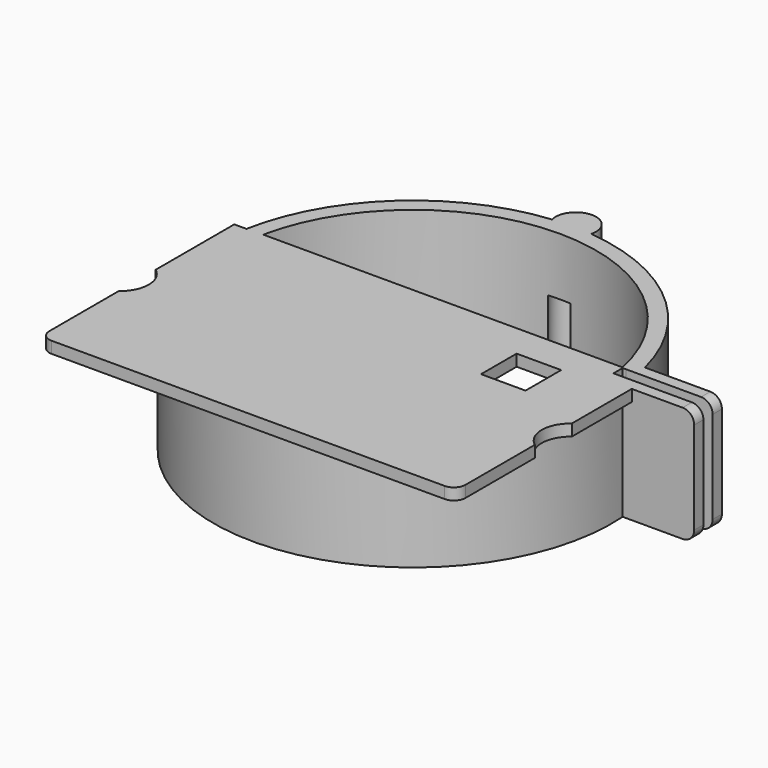
from build123d import *

# Parameters (mm, degrees)
CYLINDER027_R     = 2.5
CYLINDER027_DEPTH = 10
CYLINDER020_R     = 5
CYLINDER020_DEPTH = 5
CYLINDER019_R     = 5
CYLINDER019_DEPTH = 5
BOX005_W          = 15
BOX005_H          = 2
BOX005_DEPTH      = 20
FILLET002_R       = 2
BOX002_W          = 10
BOX002_H          = 2
BOX002_DEPTH      = 20
BOX_W             = 80
BOX_H             = 39
BOX_DEPTH         = 25
CYLINDER002_R     = 31.75
CYLINDER002_DEPTH = 25
BOX001_W          = 7.7
BOX001_H          = 7.7
BOX001_DEPTH      = 10
BOX007_W          = 72
BOX007_H          = 42
BOX007_DEPTH      = 2
CYLINDER_R        = 31.75
CYLINDER_DEPTH    = 18
CYLINDER001_R     = 34.5
CYLINDER001_DEPTH = 20
FILLET001_R       = 2
BOX006_W          = 15
BOX006_H          = 2
BOX006_DEPTH      = 20
FILLET003_R       = 2
CYLINDER026_R     = 3.5
CYLINDER026_DEPTH = 20


with BuildPart() as cylinder027:
    # Cylinder027 → Cylinder027 (new body)
    with BuildSketch(Plane(origin=(0, 33.25, 0), x_dir=(1, 0, 0), z_dir=(0, 0, 1))):
        Circle(CYLINDER027_R)
    extrude(amount=CYLINDER027_DEPTH)


with BuildPart() as cylinder020:
    # Cylinder020 → Cylinder020 (new body)
    with BuildSketch(Plane(origin=(-39.01, -14.6034, 15), x_dir=(1, 0, 0), z_dir=(0, 0, 1))):
        Circle(CYLINDER020_R)
    extrude(amount=CYLINDER020_DEPTH)


with BuildPart() as fusion013:
    # Cylinder019 → Cylinder019 (new body)
    with BuildSketch(Plane(origin=(38.99, -14.6034, 15), x_dir=(1, 0, 0), z_dir=(0, 0, 1))):
        Circle(CYLINDER019_R)
    extrude(amount=CYLINDER019_DEPTH)

    # Fusion013: union Cylinder020
    add(cylinder020.part)


with BuildPart() as fillet002:
    # Box005 → Box005 (new body)
    with BuildSketch(Plane(origin=(31.79, 6.35995, 0), x_dir=(1, 0, 0), z_dir=(0, 0, 1))):
        with Locations((7.5, 1)):
            Rectangle(BOX005_W, BOX005_H)
    extrude(amount=BOX005_DEPTH)

    # Fillet002
    fillet002_edges = [fillet002.edges().sort_by_distance(p)[0] for p in [
        (46.79, 7.35995, 20),
        (46.79, 7.35995, 0),
    ]]
    fillet(fillet002_edges, radius=FILLET002_R)


with BuildPart() as kostka002:
    # Box002 → Box002 (new body)
    with BuildSketch(Plane(origin=(31.22162, 4.362905, 0), x_dir=(1, 0, 0), z_dir=(0, 0, 1))):
        with Locations((5, 1)):
            Rectangle(BOX002_W, BOX002_H)
    extrude(amount=BOX002_DEPTH)


with BuildPart() as kostka:
    # Box → Box (new body)
    with BuildSketch(Plane(origin=(-38, -32.5, 0), x_dir=(1, 0, 0), z_dir=(0, 0, 1))):
        with Locations((40, 19.5)):
            Rectangle(BOX_W, BOX_H)
    extrude(amount=BOX_DEPTH)


with BuildPart() as cut001:
    # Cylinder002 → Cylinder002 (new body)
    with BuildSketch(Plane.XY):
        Circle(CYLINDER002_R)
    extrude(amount=CYLINDER002_DEPTH)

    # Cut001: cut Kostka
    add(kostka.part, mode=Mode.SUBTRACT)


with BuildPart() as kostka001:
    # Box001 → Box001 (new body)
    with BuildSketch(Plane(origin=(25.1, -7, 10), x_dir=(0, 1, 0), z_dir=(0, 0, 1))):
        with Locations((3.85, 3.85)):
            Rectangle(BOX001_W, BOX001_H)
    extrude(amount=BOX001_DEPTH)


with BuildPart() as kostka007:
    # Box007 → Box007 (new body)
    with BuildSketch(Plane(origin=(-36.01, -35.6034, 18), x_dir=(1, 0, 0), z_dir=(0, 0, 1))):
        with Locations((36, 21)):
            Rectangle(BOX007_W, BOX007_H)
    extrude(amount=BOX007_DEPTH)


with BuildPart() as cylinder:
    # Cylinder → Cylinder (new body)
    with BuildSketch(Plane.XY):
        Circle(CYLINDER_R)
    extrude(amount=CYLINDER_DEPTH)


with BuildPart() as fusion001:
    # Cylinder001 → Cylinder001 (new body)
    with BuildSketch(Plane.XY):
        Circle(CYLINDER001_R)
    extrude(amount=CYLINDER001_DEPTH)

    # Cut: cut Cylinder
    add(cylinder.part, mode=Mode.SUBTRACT)

    # Fusion: union Kostka007
    add(kostka007.part)

    # Cut002: cut Kostka001
    add(kostka001.part, mode=Mode.SUBTRACT)

    # Cut003: cut Cut001
    add(cut001.part, mode=Mode.SUBTRACT)

    # Cut004: cut Kostka002
    add(kostka002.part, mode=Mode.SUBTRACT)

    # Fillet001
    fillet001_edges = [fusion001.edges().sort_by_distance(p)[0] for p in [
        (-36.01, -35.6034, 19),
        (35.99, -35.6034, 19),
    ]]
    fillet(fillet001_edges, radius=FILLET001_R)

    # Fusion001: union Fillet002
    add(fillet002.part)


with BuildPart() as cut015:
    # Box006 → Box006 (new body)
    with BuildSketch(Plane(origin=(31.7936, 2.359946, 0), x_dir=(1, 0, 0), z_dir=(0, 0, 1))):
        with Locations((7.5, 1)):
            Rectangle(BOX006_W, BOX006_H)
    extrude(amount=BOX006_DEPTH)

    # Fillet003
    fillet003_edges = [cut015.edges().sort_by_distance(p)[0] for p in [
        (46.7936, 3.359946, 20),
        (46.7936, 3.359946, 0),
    ]]
    fillet(fillet003_edges, radius=FILLET003_R)

    # Fusion002: union Fusion001
    add(fusion001.part)

    # Cut015: cut Fusion013
    add(fusion013.part, mode=Mode.SUBTRACT)


with BuildPart() as base:
    # Cylinder026 → Cylinder026 (new body)
    with BuildSketch(Plane(origin=(0, 35.25, 0), x_dir=(1, 0, 0), z_dir=(0, 0, 1))):
        Circle(CYLINDER026_R)
    extrude(amount=CYLINDER026_DEPTH)

    # Fusion019: union Cut015
    add(cut015.part)

    # Cut023: cut Cylinder027
    add(cylinder027.part, mode=Mode.SUBTRACT)


solid = base.part
